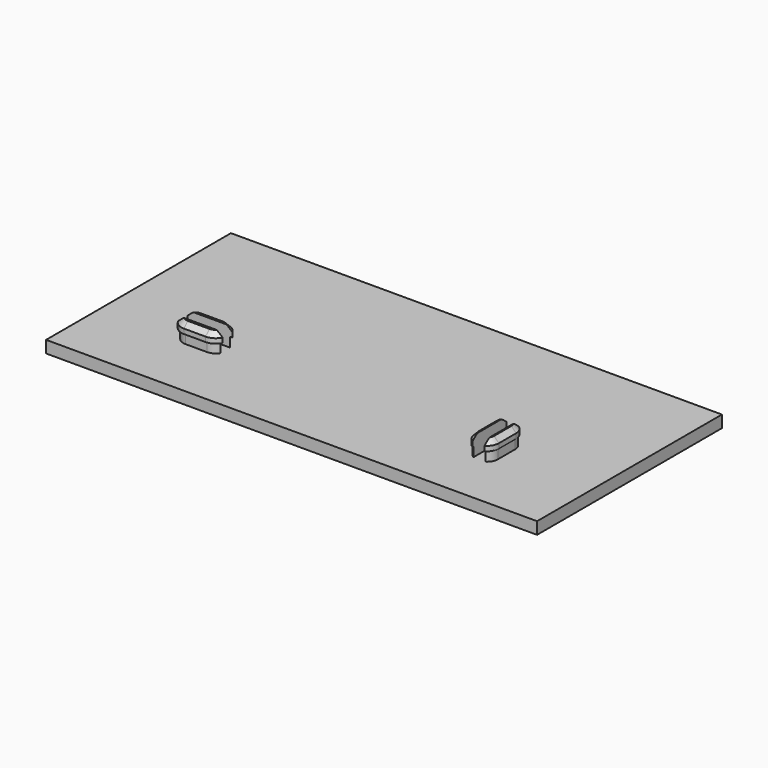
from build123d import *

# Parameters (mm, degrees)
SKETCH_W      = 102
SKETCH_H      = 48
PAD_DEPTH     = 2.5
PAD001_DEPTH  = 2
PAD002_DEPTH  = 2
SKETCH004_W   = 10
SKETCH004_H   = 2.5
SKETCH004_W_2 = 2.5
SKETCH004_H_2 = 10
POCKET_DEPTH  = 4
CHAMFER_SIZE  = 1


with BuildPart() as part:
    # Sketch → Pad (new body)
    with BuildSketch(Plane.XY):
        Rectangle(SKETCH_W, SKETCH_H)
    extrude(amount=PAD_DEPTH)

    # Sketch001 (on Face6 of Pad) → Pad001 (join)
    with BuildSketch(Plane.XY.offset(2.5)):
        with BuildLine():
            ThreePointArc((-32.395, -6.45), (-34.695, -8.75), (-32.395, -11.05))
            Line((-32.395, -11.05), (-27.905, -11.05))
            ThreePointArc((-27.905, -11.05), (-25.605, -8.75), (-27.905, -6.45))
            Line((-32.395, -6.45), (-27.905, -6.45))
        make_face()
        with BuildLine():
            ThreePointArc((32.45, -6.505), (30.15, -4.205), (27.85, -6.505))
            Line((27.85, -6.505), (27.85, -10.995))
            ThreePointArc((27.85, -10.995), (30.15, -13.295), (32.45, -10.995))
            Line((32.45, -6.505), (32.45, -10.995))
        make_face()
    extrude(amount=PAD001_DEPTH)

    # Sketch002 (on Face15 of Pad001) → Pad002 (join)
    with BuildSketch(Plane.XY.offset(4.5)):
        with BuildLine():
            ThreePointArc((-32.395, -6.048796), (-35.096204, -8.75), (-32.395, -11.451204))
            Line((-32.395, -11.451204), (-27.905, -11.451204))
            ThreePointArc((-27.905, -11.451204), (-25.203796, -8.75), (-27.905, -6.048796))
            Line((-32.395, -6.048796), (-27.905, -6.048796))
        make_face()
        with BuildLine():
            ThreePointArc((32.65, -6.505), (30.15, -4.005), (27.65, -6.505))
            Line((27.65, -6.505), (27.65, -10.995))
            ThreePointArc((27.65, -10.995), (30.15, -13.495), (32.65, -10.995))
            Line((32.65, -6.505), (32.65, -10.995))
        make_face()
    extrude(amount=PAD002_DEPTH)

    # Sketch004 (on Face25 of Pad002) → Pocket (cut)
    with BuildSketch(Plane.XY.offset(6.5)):
        with Locations((-30.15, -8.75)):
            Rectangle(SKETCH004_W, SKETCH004_H)
        with Locations((30.15, -8.75)):
            Rectangle(SKETCH004_W_2, SKETCH004_H_2)
    extrude(amount=-POCKET_DEPTH, mode=Mode.SUBTRACT)

    # Chamfer
    chamfer_edges = [part.edges().sort_by_distance(p)[0] for p in [
        (-33.795, -6.439912, 6.5),
        (-30.15, -6.048796, 6.5),
        (-26.505, -6.439912, 6.5),
        (-26.505, -11.060088, 6.5),
        (-30.15, -11.451204, 6.5),
        (-33.795, -11.060088, 6.5),
        (27.984936, -5.255, 6.5),
        (27.65, -8.75, 6.5),
        (27.984936, -12.245, 6.5),
        (32.315064, -12.245, 6.5),
        (32.65, -8.75, 6.5),
        (32.315064, -5.255, 6.5),
    ]]
    chamfer(chamfer_edges, length=CHAMFER_SIZE)


solid = part.part
